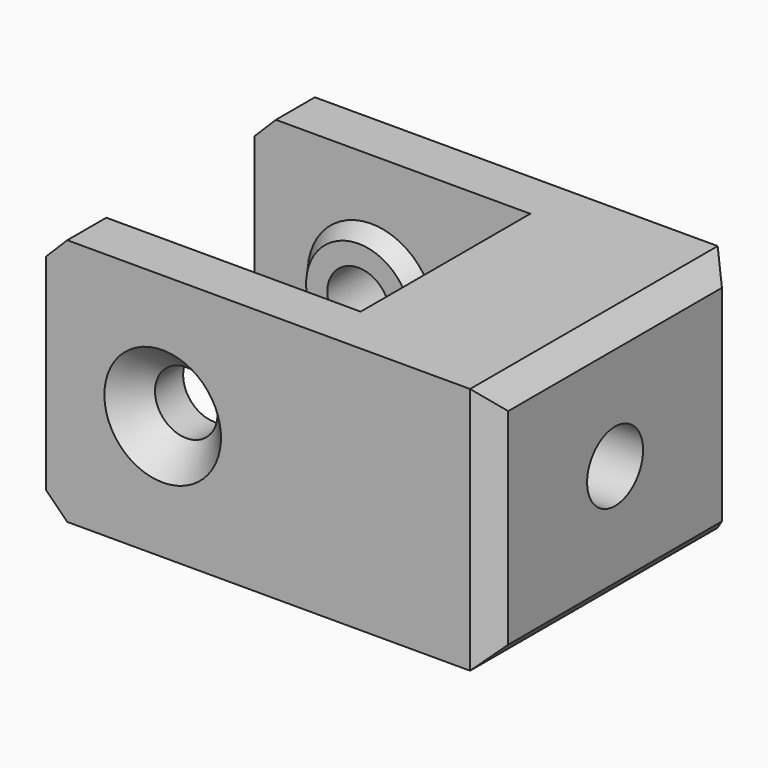
from build123d import *

# Parameters (mm, degrees)
F1_DEPTH       = 11.7
F4_R           = 3
F6_DEPTH       = 0.75
F6_TAPER       = 35
F5_R           = 3
F7_DEPTH       = 0.75
F7_TAPER       = 35
F8_D           = 2.95
F8_CSINK_D     = 5.5
F8_CSINK_ANGLE = 85
F9_D           = 3.3
F9_CBORE_D     = 6.5
F9_CBORE_DEPTH = 4
F10_SIZE       = 1


with BuildPart() as f1:
    # F0 (on Top) → F1 (new body)
    with BuildSketch(Plane.XY):
        Polygon((-13, -7.3), (8, -7.3), (8, 0), (0, 0), (0, -5), (-13, -5), align=None)
        Polygon((0, 0), (8, 0), (8, 7.3), (-13, 7.3), (-13, 5), (0, 5), align=None)
    extrude(amount=F1_DEPTH)

    # F4 (on face) → F6 (join)
    with BuildSketch(Plane(origin=(0, -5, 0), x_dir=(-1, 0, 0), z_dir=(0, 1, 0))):
        with Locations((7.5, 5.85)):
            Circle(F4_R)
    extrude(amount=F6_DEPTH, taper=F6_TAPER)

    # F5 (on face) → F7 (join)
    with BuildSketch(Plane.XZ.offset(-5)):
        with Locations((-7.5, 5.85)):
            Circle(F5_R)
    extrude(amount=F7_DEPTH, taper=F7_TAPER)

    # F8 (through all)
    with Locations(Plane.XZ.offset(7.3)):
        with Locations((-7.5, 5.85)):
            CounterSinkHole(F8_D / 2, F8_CSINK_D / 2, counter_sink_angle=F8_CSINK_ANGLE)

    # F9 (through all)
    with Locations(Plane(origin=(0, 0, 0), x_dir=(0, -1, 0), z_dir=(-1, 0, 0))):
        with Locations((0, 5.85)):
            CounterBoreHole(F9_D / 2, F9_CBORE_D / 2, F9_CBORE_DEPTH)

    # F10
    f10_edges = [f1.edges().sort_by_distance(p)[0] for p in [
        (-13, -6.15, 11.7),
        (-13, -6.15, 0),
        (-13, 6.15, 0),
        (-13, 6.15, 11.7),
        (8, 0, 11.7),
        (8, -7.3, 5.85),
        (8, 0, 0),
        (8, 7.3, 5.85),
    ]]
    chamfer(f10_edges, length=F10_SIZE)


solid = f1.part
